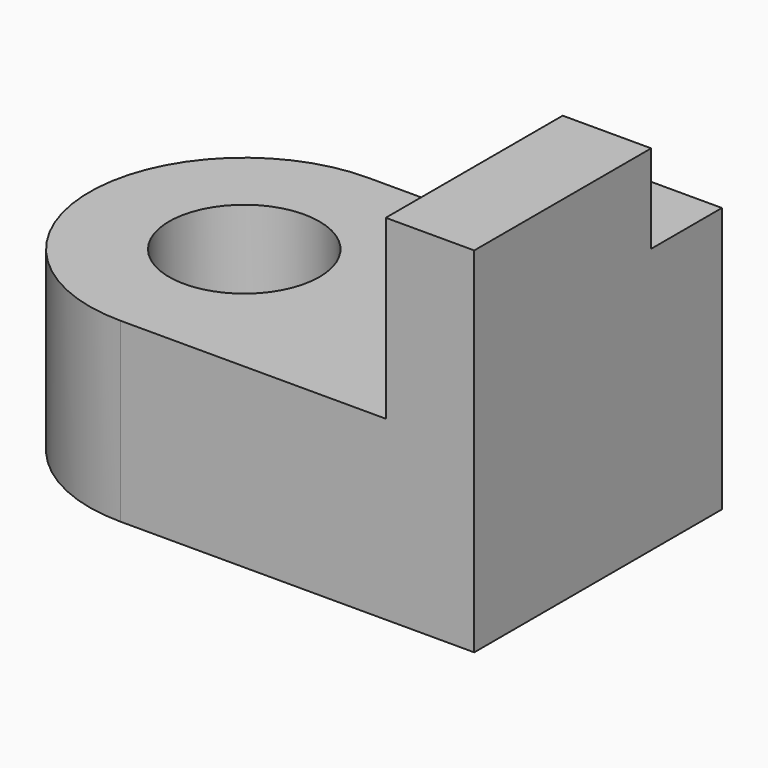
from build123d import *

# Parameters (mm, degrees)
F0_W     = 50.8
F0_H     = 44.45
F1_DEPTH = 25.4
F2_R     = 22.225
F3_DEPTH = 25.4
F4_R     = 10.795
F5_DEPTH = 25.401
F6_W     = 12.7
F6_H     = 44.45
F7_DEPTH = 25.4
F8_W     = 12.7
F8_H     = 12.7
F9_DEPTH = 12.7


with BuildPart() as f1:
    # F0 (on Top) → F1 (new body)
    with BuildSketch(Plane.XY):
        Rectangle(F0_W, F0_H)
    extrude(amount=F1_DEPTH)

    # F2 (on Top) → F3 (join)
    with BuildSketch(Plane.XY):
        with Locations((-25.4, 0)):
            Circle(F2_R)
    extrude(amount=F3_DEPTH)

    # F4 (on face) → F5 (cut, through all)
    with BuildSketch(Plane.XY.offset(25.4)):
        with Locations((-25.4, 0)):
            Circle(F4_R)
    extrude(amount=-F5_DEPTH, mode=Mode.SUBTRACT)

    # F6 (on face) → F7 (join)
    with BuildSketch(Plane.XY.offset(25.4)):
        with Locations((19.05, 0)):
            Rectangle(F6_W, F6_H)
    extrude(amount=F7_DEPTH)

    # F8 (on face) → F9 (cut)
    with BuildSketch(Plane.XY.offset(50.8)):
        with Locations((19.05, 15.875)):
            Rectangle(F8_W, F8_H)
    extrude(amount=-F9_DEPTH, mode=Mode.SUBTRACT)


solid = f1.part
